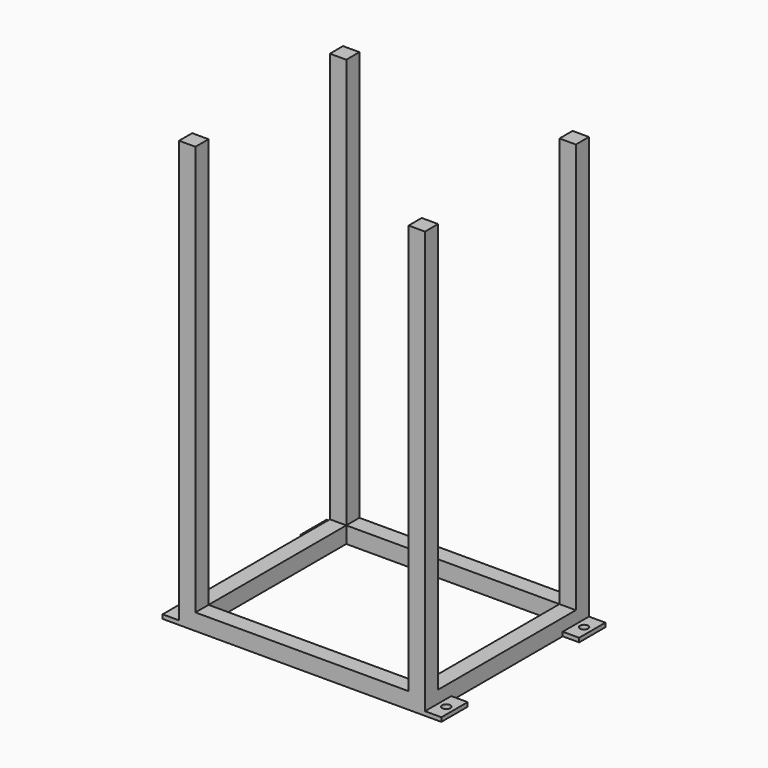
from build123d import *

# Parameters (mm, degrees)
F0_W     = 40
F0_H     = 500
F1_DEPTH = 40
F2_W     = 40
F2_H     = 40
F3_DEPTH = 1000
F4_W     = 600
F4_H     = 500
F4_W_2   = 520
F4_H_2   = 420
F5_DEPTH = 40
F6_W     = 40
F6_H     = 80
F6_R     = 10
F7_DEPTH = 10
F8_W     = 600
F8_H     = 500
F9_DEPTH = 40


with BuildPart() as f1:
    # F0 (on Top) → F1 (new body)
    with BuildSketch(Plane.XY):
        with Locations((280, 0)):
            Rectangle(F0_W, F0_H)
        with Locations((-280, 0)):
            Rectangle(F0_W, F0_H)
    extrude(amount=-F1_DEPTH)

    # F2 (on face) → F3 (join)
    with BuildSketch(Plane(origin=(0, 0, -40), x_dir=(1, 0, 0), z_dir=(0, 0, -1))):
        with Locations((280, -230)):
            Rectangle(F2_W, F2_H)
        with Locations((-280, -230)):
            Rectangle(F2_W, F2_H)
        with Locations((280, 230)):
            Rectangle(F2_W, F2_H)
        with Locations((-280, 230)):
            Rectangle(F2_W, F2_H)
    extrude(amount=F3_DEPTH)

    # F4 (on face) → F5 (join)
    with BuildSketch(Plane(origin=(0, 0, -1040), x_dir=(1, 0, 0), z_dir=(0, 0, -1))):
        Rectangle(F4_W, F4_H)
        Rectangle(F4_W_2, F4_H_2, mode=Mode.SUBTRACT)
    extrude(amount=F5_DEPTH)

    # F6 (on face) → F7 (join)
    with BuildSketch(Plane(origin=(0, 0, -1080), x_dir=(1, 0, 0), z_dir=(0, 0, -1))):
        with Locations((-320, 210)):
            Rectangle(F6_W, F6_H)
        with Locations((-320, 210)):
            Circle(F6_R, mode=Mode.SUBTRACT)
        with Locations((320, 210)):
            Rectangle(F6_W, F6_H)
        with Locations((320, 210)):
            Circle(F6_R, mode=Mode.SUBTRACT)
        with Locations((-320, -210)):
            Rectangle(F6_W, F6_H)
        with Locations((-320, -210)):
            Circle(F6_R, mode=Mode.SUBTRACT)
        with Locations((320, -210)):
            Rectangle(F6_W, F6_H)
        with Locations((320, -210)):
            Circle(F6_R, mode=Mode.SUBTRACT)
    extrude(amount=-F7_DEPTH)

    # F8 (on face) → F9 (cut)
    with BuildSketch(Plane.XY):
        Rectangle(F8_W, F8_H)
    extrude(amount=-F9_DEPTH, mode=Mode.SUBTRACT)


solid = f1.part
